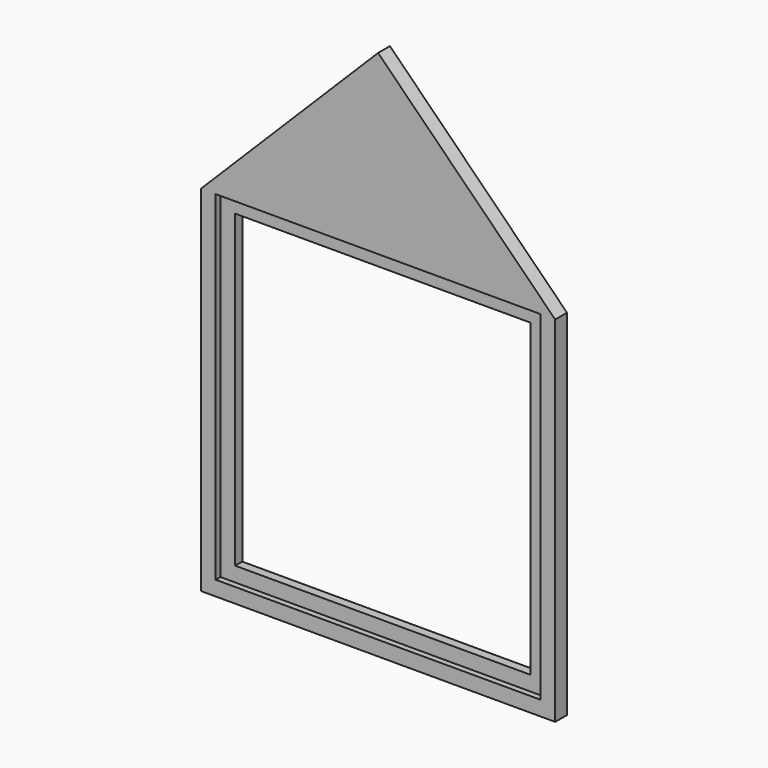
from build123d import *

# Parameters (mm, degrees)
F0_W     = 152.4
F0_H     = 152.4
F1_DEPTH = 6.35
F2_W     = 139.7
F2_H     = 146.05
F3_DEPTH = 2.54
F4_W     = 127
F4_H     = 133.35
F5_DEPTH = 3.811


with BuildPart() as f1:
    # F0 (on Front) → F1 (new body)
    with BuildSketch(Plane.XZ):
        Polygon((76.2, 76.2), (0, 0), (152.4, 0), align=None)
        with Locations((76.2, -76.2)):
            Rectangle(F0_W, F0_H)
    extrude(amount=F1_DEPTH)

    # F2 (on face) → F3 (cut)
    with BuildSketch(Plane.XZ.offset(6.35)):
        with Locations((76.2, -73.025)):
            Rectangle(F2_W, F2_H)
    extrude(amount=-F3_DEPTH, mode=Mode.SUBTRACT)

    # F4 (on face) → F5 (cut, through all)
    with BuildSketch(Plane.XZ.offset(3.81)):
        with Locations((76.2, -73.025)):
            Rectangle(F4_W, F4_H)
    extrude(amount=-F5_DEPTH, mode=Mode.SUBTRACT)


solid = f1.part
